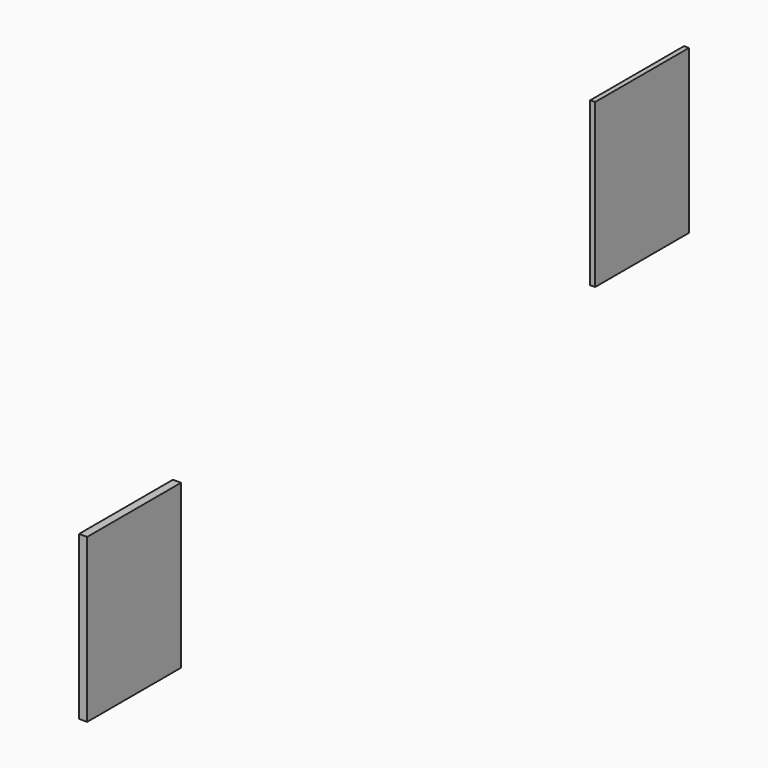
from build123d import *

# Parameters (mm, degrees)
F0_W     = 720
F0_H     = 1000
F1_DEPTH = 50
F2_W     = 720
F2_H     = 1000
F3_DEPTH = 30


with BuildPart() as f1:
    # F0 (on Right) → F1 (new body)
    with BuildSketch(Plane.YZ):
        with Locations((97.072705, 6.385373)):
            Rectangle(F0_W, F0_H)
    extrude(amount=F1_DEPTH)


with BuildPart() as f3:
    # F2 (on face) → F3 (new body)
    with BuildSketch(Plane.YZ):
        with Locations((4020.002955, 755.452067)):
            Rectangle(F2_W, F2_H)
    extrude(amount=F3_DEPTH)


solid = Compound([f1.part, f3.part])
